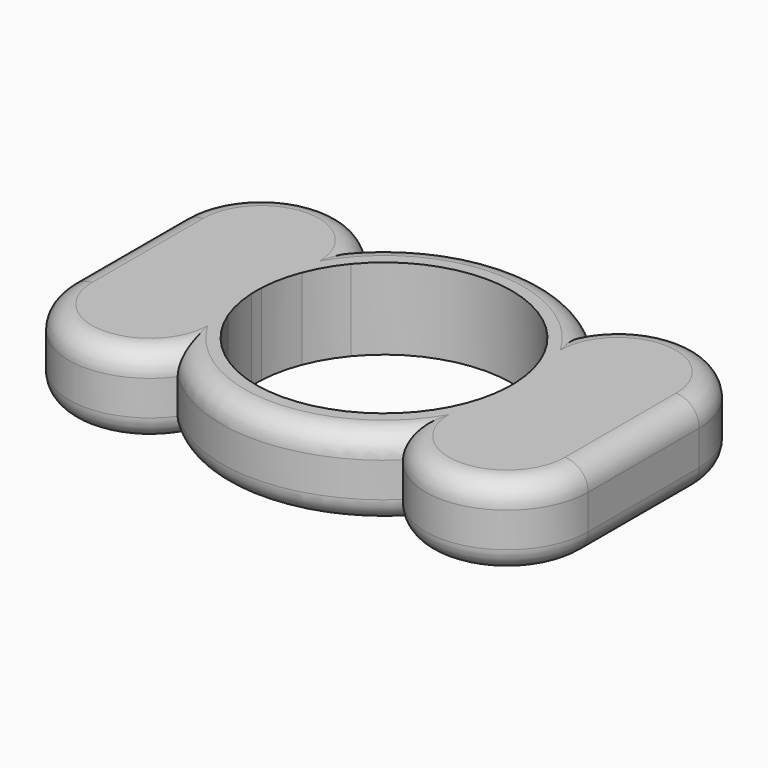
from build123d import *

# Parameters (mm, degrees)
F1_DEPTH = 7
F2_DEPTH = 7
F3_R     = 2


with BuildPart() as f1:
    # F0 (on Top) → F1 (new body)
    with BuildSketch(Plane.XY):
        with BuildLine():
            ThreePointArc((-9.7087900596, -10.0865948456), (-8.9007458498, -8.6347522936), (-8.4576472505, -7.0333635613))
            ThreePointArc((-8.4576472505, -7.0333635613), (-9.4780216806, -5.5827506682), (-10.2520112756, -3.9870120147))
            ThreePointArc((-10.2520112756, -3.9870120147), (-10.759495877, -2.2876294437), (-10.9872832267, -0.5287790616))
            ThreePointArc((-10.9872832267, -0.5287790616), (-11.3550654803, -0.2520049718), (-11.7402422931, 0))
            ThreePointArc((-11.7402422931, 0), (-12.8185393367, -0.5347774075), (-13.9725087133, -0.8769265967))
            ThreePointArc((-13.9725087133, -0.8769265967), (-13.9710444343, -0.8999541178), (-13.9695422046, -0.9229791942))
            ThreePointArc((-13.9695422046, -0.9229791942), (-11.1972877772, -2.804985958), (-10.1280169134, -5.9805180221))
            ThreePointArc((-10.1280169134, -5.9805180221), (-10.3305835736, -7.4247883157), (-10.9226518395, -8.757606796))
            ThreePointArc((-10.9226518395, -8.757606796), (-10.3371007066, -9.4416285132), (-9.7087900596, -10.0865948456))
        make_face()
        with BuildLine():
            ThreePointArc((-14.0697397209, 0.8961389265), (-15.3780169134, 0.7305180221), (-16.6862941059, 0.8961389265))
            ThreePointArc((-16.6862941059, 0.8961389265), (-17.8913062675, 0.5527335897), (-19.0157915336, 0))
            ThreePointArc((-19.0157915336, 0), (-17.8913062675, -0.5527335897), (-16.6862941059, -0.8961389265))
            ThreePointArc((-16.6862941059, -0.8961389265), (-15.3780169134, -0.7305180221), (-14.0697397209, -0.8961389265))
            ThreePointArc((-14.0697397209, -0.8961389265), (-14.021090214, -0.8867048469), (-13.9725087133, -0.8769265967))
            ThreePointArc((-13.9725087133, -0.8769265967), (-14, 0), (-13.9725087133, 0.8769265967))
            ThreePointArc((-13.9725087133, 0.8769265967), (-14.021090214, 0.8867048469), (-14.0697397209, 0.8961389265))
        make_face()
        with BuildLine():
            ThreePointArc((-22.3780169134, -5.9805180221), (-17.5361888277, -12.6395189973), (-9.7087900596, -10.0865948456))
            ThreePointArc((-9.7087900596, -10.0865948456), (-10.3371007066, -9.4416285132), (-10.9226518395, -8.757606796))
            ThreePointArc((-10.9226518395, -8.757606796), (-19.6120114574, -9.0846749448), (-16.6862941059, -0.8961389265))
            ThreePointArc((-16.6862941059, -0.8961389265), (-17.8913062675, -0.5527335897), (-19.0157915336, 0))
            ThreePointArc((-19.0157915336, 0), (-21.4798372296, -2.5500969358), (-22.3780169134, -5.9805180221))
        make_face()
        with BuildLine():
            ThreePointArc((-13.9725087133, -0.8769265967), (-12.8185393367, -0.5347774075), (-11.7402422931, 0))
            ThreePointArc((-11.7402422931, 0), (-12.8185393367, 0.5347774075), (-13.9725087133, 0.8769265967))
            ThreePointArc((-13.9725087133, 0.8769265967), (-14, 0), (-13.9725087133, -0.8769265967))
        make_face()
        with BuildLine():
            ThreePointArc((-14.0697397209, -0.8961389265), (-14.019574672, -0.90931159), (-13.9695422046, -0.9229791942))
            ThreePointArc((-13.9695422046, -0.9229791942), (-13.9710444343, -0.8999541178), (-13.9725087133, -0.8769265967))
            ThreePointArc((-13.9725087133, -0.8769265967), (-14.021090214, -0.8867048469), (-14.0697397209, -0.8961389265))
        make_face()
        with BuildLine():
            ThreePointArc((-13.9725087133, 0.8769265967), (-13.9710444343, 0.8999541178), (-13.9695422046, 0.9229791942))
            ThreePointArc((-13.9695422046, 0.9229791942), (-14.019574672, 0.90931159), (-14.0697397209, 0.8961389265))
            ThreePointArc((-14.0697397209, 0.8961389265), (-14.021090214, 0.8867048469), (-13.9725087133, 0.8769265967))
        make_face()
        with BuildLine():
            ThreePointArc((-10.9872832267, -0.5287790616), (-11, 0), (-10.9872832267, 0.5287790616))
            ThreePointArc((-10.9872832267, 0.5287790616), (-11.3550654803, 0.2520049718), (-11.7402422931, 0))
            ThreePointArc((-11.7402422931, 0), (-11.3550654803, -0.2520049718), (-10.9872832267, -0.5287790616))
        make_face()
        with BuildLine():
            ThreePointArc((-10.2520112756, 3.9870120147), (-9.4780216806, 5.5827506682), (-8.4576472505, 7.0333635613))
            ThreePointArc((-8.4576472505, 7.0333635613), (-8.9007458498, 8.6347522936), (-9.7087900596, 10.0865948456))
            ThreePointArc((-9.7087900596, 10.0865948456), (-10.3371007066, 9.4416285132), (-10.9226518395, 8.757606796))
            ThreePointArc((-10.9226518395, 8.757606796), (-10.3305835736, 7.4247883157), (-10.1280169134, 5.9805180221))
            ThreePointArc((-10.1280169134, 5.9805180221), (-11.1972877772, 2.804985958), (-13.9695422046, 0.9229791942))
            ThreePointArc((-13.9695422046, 0.9229791942), (-13.9710444343, 0.8999541178), (-13.9725087133, 0.8769265967))
            ThreePointArc((-13.9725087133, 0.8769265967), (-12.8185393367, 0.5347774075), (-11.7402422931, 0))
            ThreePointArc((-11.7402422931, 0), (-11.3550654803, 0.2520049718), (-10.9872832267, 0.5287790616))
            ThreePointArc((-10.9872832267, 0.5287790616), (-10.759495877, 2.2876294437), (-10.2520112756, 3.9870120147))
        make_face()
        with BuildLine():
            ThreePointArc((-10.9226518395, 8.757606796), (-10.3371007066, 9.4416285132), (-9.7087900596, 10.0865948456))
            ThreePointArc((-9.7087900596, 10.0865948456), (-17.5361888277, 12.6395189973), (-22.3780169134, 5.9805180221))
            ThreePointArc((-22.3780169134, 5.9805180221), (-21.4798372296, 2.5500969358), (-19.0157915336, 0))
            ThreePointArc((-19.0157915336, 0), (-17.8913062675, 0.5527335897), (-16.6862941059, 0.8961389265))
            ThreePointArc((-16.6862941059, 0.8961389265), (-19.6120114574, 9.0846749448), (-10.9226518395, 8.757606796))
        make_face()
        with BuildLine():
            ThreePointArc((10.2520112756, 3.9870120147), (10.759495877, 2.2876294437), (10.9872832267, 0.5287790616))
            ThreePointArc((10.9872832267, 0.5287790616), (11.3550654803, 0.2520049718), (11.7402422931, 0))
            ThreePointArc((11.7402422931, 0), (12.8185393367, 0.5347774075), (13.9725087133, 0.8769265967))
            ThreePointArc((13.9725087133, 0.8769265967), (13.9710444343, 0.8999541178), (13.9695422046, 0.9229791942))
            ThreePointArc((13.9695422046, 0.9229791942), (10.4850115318, 4.0776259241), (10.9226518395, 8.757606796))
            ThreePointArc((10.9226518395, 8.757606796), (10.3371007066, 9.4416285132), (9.7087900596, 10.0865948456))
            ThreePointArc((9.7087900596, 10.0865948456), (8.9007458498, 8.6347522936), (8.4576472505, 7.0333635613))
            ThreePointArc((8.4576472505, 7.0333635613), (9.4780216806, 5.5827506682), (10.2520112756, 3.9870120147))
        make_face()
        with BuildLine():
            ThreePointArc((9.7087900596, -10.0865948456), (8.9007458498, -8.6347522936), (8.4576472505, -7.0333635613))
            ThreePointArc((8.4576472505, -7.0333635613), (0, -11), (-8.4576472505, -7.0333635613))
            ThreePointArc((-8.4576472505, -7.0333635613), (-8.9007458498, -8.6347522936), (-9.7087900596, -10.0865948456))
            ThreePointArc((-9.7087900596, -10.0865948456), (0, -14), (9.7087900596, -10.0865948456))
        make_face()
        with BuildLine():
            ThreePointArc((11.7402422931, 0), (11.3550654803, -0.2520049718), (10.9872832267, -0.5287790616))
            ThreePointArc((10.9872832267, -0.5287790616), (10.759495877, -2.2876294437), (10.2520112756, -3.9870120147))
            ThreePointArc((10.2520112756, -3.9870120147), (9.4780216806, -5.5827506682), (8.4576472505, -7.0333635613))
            ThreePointArc((8.4576472505, -7.0333635613), (8.9007458498, -8.6347522936), (9.7087900596, -10.0865948456))
            ThreePointArc((9.7087900596, -10.0865948456), (10.3371007066, -9.4416285132), (10.9226518395, -8.757606796))
            ThreePointArc((10.9226518395, -8.757606796), (10.4850115318, -4.0776259241), (13.9695422046, -0.9229791942))
            ThreePointArc((13.9695422046, -0.9229791942), (13.9710444343, -0.8999541178), (13.9725087133, -0.8769265967))
            ThreePointArc((13.9725087133, -0.8769265967), (12.8185393367, -0.5347774075), (11.7402422931, 0))
        make_face()
        with BuildLine():
            ThreePointArc((9.7087900596, -10.0865948456), (8.9007458498, -8.6347522936), (8.4576472505, -7.0333635613))
            ThreePointArc((8.4576472505, -7.0333635613), (0, -11), (-8.4576472505, -7.0333635613))
            ThreePointArc((-8.4576472505, -7.0333635613), (-8.9007458498, -8.6347522936), (-9.7087900596, -10.0865948456))
            ThreePointArc((-9.7087900596, -10.0865948456), (0, -14), (9.7087900596, -10.0865948456))
        make_face()
        with BuildLine():
            ThreePointArc((10.9872832267, 0.5287790616), (10.9968203471, 0.2644659772), (11, 0))
            ThreePointArc((11, 0), (10.9968203471, -0.2644659772), (10.9872832267, -0.5287790616))
            ThreePointArc((10.9872832267, -0.5287790616), (11.3550654803, -0.2520049718), (11.7402422931, 0))
            ThreePointArc((11.7402422931, 0), (11.3550654803, 0.2520049718), (10.9872832267, 0.5287790616))
        make_face()
        with BuildLine():
            ThreePointArc((22.3780169134, 5.9805180221), (17.5361888277, 12.6395189973), (9.7087900596, 10.0865948456))
            ThreePointArc((9.7087900596, 10.0865948456), (10.3371007066, 9.4416285132), (10.9226518395, 8.757606796))
            ThreePointArc((10.9226518395, 8.757606796), (16.822287207, 11.0279513618), (20.6280169134, 5.9805180221))
            ThreePointArc((20.6280169134, 5.9805180221), (19.5271707585, 2.7638392427), (16.6862941059, 0.8961389265))
            ThreePointArc((16.6862941059, 0.8961389265), (17.8913062675, 0.5527335897), (19.0157915336, 0))
            ThreePointArc((19.0157915336, 0), (21.4798372296, 2.5500969358), (22.3780169134, 5.9805180221))
        make_face()
        with BuildLine():
            Line((22.3780169134, -5.9805180221), (22.3780169134, 5.9805180221))
            ThreePointArc((22.3780169134, 5.9805180221), (21.4798372296, 2.5500969358), (19.0157915336, 0))
            ThreePointArc((19.0157915336, 0), (21.4798372296, -2.5500969358), (22.3780169134, -5.9805180221))
        make_face()
        with BuildLine():
            ThreePointArc((14, 0), (13.9931254905, -0.4386787056), (13.9725087133, -0.8769265967))
            ThreePointArc((13.9725087133, -0.8769265967), (14.021090214, -0.8867048469), (14.0697397209, -0.8961389265))
            ThreePointArc((14.0697397209, -0.8961389265), (15.3780169134, -0.7305180221), (16.6862941059, -0.8961389265))
            ThreePointArc((16.6862941059, -0.8961389265), (17.8913062675, -0.5527335897), (19.0157915336, 0))
            ThreePointArc((19.0157915336, 0), (17.8913062675, 0.5527335897), (16.6862941059, 0.8961389265))
            ThreePointArc((16.6862941059, 0.8961389265), (15.3780169134, 0.7305180221), (14.0697397209, 0.8961389265))
            ThreePointArc((14.0697397209, 0.8961389265), (14.021090214, 0.8867048469), (13.9725087133, 0.8769265967))
            ThreePointArc((13.9725087133, 0.8769265967), (13.9931254905, 0.4386787056), (14, 0))
        make_face()
        with BuildLine():
            ThreePointArc((10.9226518395, -8.757606796), (10.3371007066, -9.4416285132), (9.7087900596, -10.0865948456))
            ThreePointArc((9.7087900596, -10.0865948456), (17.5361888277, -12.6395189973), (22.3780169134, -5.9805180221))
            ThreePointArc((22.3780169134, -5.9805180221), (21.4798372296, -2.5500969358), (19.0157915336, 0))
            ThreePointArc((19.0157915336, 0), (17.8913062675, -0.5527335897), (16.6862941059, -0.8961389265))
            ThreePointArc((16.6862941059, -0.8961389265), (19.5271707585, -2.7638392427), (20.6280169134, -5.9805180221))
            ThreePointArc((20.6280169134, -5.9805180221), (16.822287207, -11.0279513618), (10.9226518395, -8.757606796))
        make_face()
        with BuildLine():
            ThreePointArc((10.2520112756, 3.9870120147), (10.759495877, 2.2876294437), (10.9872832267, 0.5287790616))
            ThreePointArc((10.9872832267, 0.5287790616), (11.3550654803, 0.2520049718), (11.7402422931, 0))
            ThreePointArc((11.7402422931, 0), (12.8185393367, 0.5347774075), (13.9725087133, 0.8769265967))
            ThreePointArc((13.9725087133, 0.8769265967), (13.9710444343, 0.8999541178), (13.9695422046, 0.9229791942))
            ThreePointArc((13.9695422046, 0.9229791942), (10.4850115318, 4.0776259241), (10.9226518395, 8.757606796))
            ThreePointArc((10.9226518395, 8.757606796), (10.3371007066, 9.4416285132), (9.7087900596, 10.0865948456))
            ThreePointArc((9.7087900596, 10.0865948456), (8.9007458498, 8.6347522936), (8.4576472505, 7.0333635613))
            ThreePointArc((8.4576472505, 7.0333635613), (9.4780216806, 5.5827506682), (10.2520112756, 3.9870120147))
        make_face()
        with BuildLine():
            ThreePointArc((14, 0), (13.9931254905, -0.4386787056), (13.9725087133, -0.8769265967))
            ThreePointArc((13.9725087133, -0.8769265967), (14.021090214, -0.8867048469), (14.0697397209, -0.8961389265))
            ThreePointArc((14.0697397209, -0.8961389265), (15.3780169134, -0.7305180221), (16.6862941059, -0.8961389265))
            ThreePointArc((16.6862941059, -0.8961389265), (17.8913062675, -0.5527335897), (19.0157915336, 0))
            ThreePointArc((19.0157915336, 0), (17.8913062675, 0.5527335897), (16.6862941059, 0.8961389265))
            ThreePointArc((16.6862941059, 0.8961389265), (15.3780169134, 0.7305180221), (14.0697397209, 0.8961389265))
            ThreePointArc((14.0697397209, 0.8961389265), (14.021090214, 0.8867048469), (13.9725087133, 0.8769265967))
            ThreePointArc((13.9725087133, 0.8769265967), (13.9931254905, 0.4386787056), (14, 0))
        make_face()
        with BuildLine():
            ThreePointArc((13.9695422046, 0.9229791942), (13.9710444343, 0.8999541178), (13.9725087133, 0.8769265967))
            ThreePointArc((13.9725087133, 0.8769265967), (14.021090214, 0.8867048469), (14.0697397209, 0.8961389265))
            ThreePointArc((14.0697397209, 0.8961389265), (14.019574672, 0.90931159), (13.9695422046, 0.9229791942))
        make_face()
        with BuildLine():
            ThreePointArc((-19.0157915336, 0), (-21.4798372296, 2.5500969358), (-22.3780169134, 5.9805180221))
            Line((-22.3780169134, 5.9805180221), (-22.3780169134, -5.9805180221))
            ThreePointArc((-22.3780169134, -5.9805180221), (-21.4798372296, -2.5500969358), (-19.0157915336, 0))
        make_face()
        with BuildLine():
            ThreePointArc((-8.4576472505, 7.0333635613), (0, 11), (8.4576472505, 7.0333635613))
            ThreePointArc((8.4576472505, 7.0333635613), (8.9007458498, 8.6347522936), (9.7087900596, 10.0865948456))
            ThreePointArc((9.7087900596, 10.0865948456), (0, 14), (-9.7087900596, 10.0865948456))
            ThreePointArc((-9.7087900596, 10.0865948456), (-8.9007458498, 8.6347522936), (-8.4576472505, 7.0333635613))
        make_face()
    extrude(amount=F1_DEPTH)

    # F0 (on Top) → F2 (join)
    with BuildSketch(Plane.XY):
        with BuildLine():
            ThreePointArc((-9.7087900596, -10.0865948456), (-8.9007458498, -8.6347522936), (-8.4576472505, -7.0333635613))
            ThreePointArc((-8.4576472505, -7.0333635613), (-9.4780216806, -5.5827506682), (-10.2520112756, -3.9870120147))
            ThreePointArc((-10.2520112756, -3.9870120147), (-10.759495877, -2.2876294437), (-10.9872832267, -0.5287790616))
            ThreePointArc((-10.9872832267, -0.5287790616), (-11.3550654803, -0.2520049718), (-11.7402422931, 0))
            ThreePointArc((-11.7402422931, 0), (-12.8185393367, -0.5347774075), (-13.9725087133, -0.8769265967))
            ThreePointArc((-13.9725087133, -0.8769265967), (-13.9710444343, -0.8999541178), (-13.9695422046, -0.9229791942))
            ThreePointArc((-13.9695422046, -0.9229791942), (-11.1972877772, -2.804985958), (-10.1280169134, -5.9805180221))
            ThreePointArc((-10.1280169134, -5.9805180221), (-10.3305835736, -7.4247883157), (-10.9226518395, -8.757606796))
            ThreePointArc((-10.9226518395, -8.757606796), (-10.3371007066, -9.4416285132), (-9.7087900596, -10.0865948456))
        make_face()
        with BuildLine():
            ThreePointArc((-22.3780169134, -5.9805180221), (-17.5361888277, -12.6395189973), (-9.7087900596, -10.0865948456))
            ThreePointArc((-9.7087900596, -10.0865948456), (-10.3371007066, -9.4416285132), (-10.9226518395, -8.757606796))
            ThreePointArc((-10.9226518395, -8.757606796), (-19.6120114574, -9.0846749448), (-16.6862941059, -0.8961389265))
            ThreePointArc((-16.6862941059, -0.8961389265), (-17.8913062675, -0.5527335897), (-19.0157915336, 0))
            ThreePointArc((-19.0157915336, 0), (-21.4798372296, -2.5500969358), (-22.3780169134, -5.9805180221))
        make_face()
        with BuildLine():
            ThreePointArc((-14.0697397209, 0.8961389265), (-15.3780169134, 0.7305180221), (-16.6862941059, 0.8961389265))
            ThreePointArc((-16.6862941059, 0.8961389265), (-17.8913062675, 0.5527335897), (-19.0157915336, 0))
            ThreePointArc((-19.0157915336, 0), (-17.8913062675, -0.5527335897), (-16.6862941059, -0.8961389265))
            ThreePointArc((-16.6862941059, -0.8961389265), (-15.3780169134, -0.7305180221), (-14.0697397209, -0.8961389265))
            ThreePointArc((-14.0697397209, -0.8961389265), (-14.021090214, -0.8867048469), (-13.9725087133, -0.8769265967))
            ThreePointArc((-13.9725087133, -0.8769265967), (-14, 0), (-13.9725087133, 0.8769265967))
            ThreePointArc((-13.9725087133, 0.8769265967), (-14.021090214, 0.8867048469), (-14.0697397209, 0.8961389265))
        make_face()
        with BuildLine():
            ThreePointArc((-10.9226518395, 8.757606796), (-10.3371007066, 9.4416285132), (-9.7087900596, 10.0865948456))
            ThreePointArc((-9.7087900596, 10.0865948456), (-17.5361888277, 12.6395189973), (-22.3780169134, 5.9805180221))
            ThreePointArc((-22.3780169134, 5.9805180221), (-21.4798372296, 2.5500969358), (-19.0157915336, 0))
            ThreePointArc((-19.0157915336, 0), (-17.8913062675, 0.5527335897), (-16.6862941059, 0.8961389265))
            ThreePointArc((-16.6862941059, 0.8961389265), (-19.6120114574, 9.0846749448), (-10.9226518395, 8.757606796))
        make_face()
        with BuildLine():
            ThreePointArc((-8.4576472505, 7.0333635613), (0, 11), (8.4576472505, 7.0333635613))
            ThreePointArc((8.4576472505, 7.0333635613), (8.9007458498, 8.6347522936), (9.7087900596, 10.0865948456))
            ThreePointArc((9.7087900596, 10.0865948456), (0, 14), (-9.7087900596, 10.0865948456))
            ThreePointArc((-9.7087900596, 10.0865948456), (-8.9007458498, 8.6347522936), (-8.4576472505, 7.0333635613))
        make_face()
        with BuildLine():
            ThreePointArc((-10.1280169134, 5.9805180221), (-10.3305835736, 7.4247883157), (-10.9226518395, 8.757606796))
            ThreePointArc((-10.9226518395, 8.757606796), (-13.0480143507, 5.0743789278), (-13.9695422046, 0.9229791942))
            ThreePointArc((-13.9695422046, 0.9229791942), (-11.1972877772, 2.804985958), (-10.1280169134, 5.9805180221))
        make_face()
        with BuildLine():
            ThreePointArc((-13.9695422046, 0.9229791942), (-13.0480143507, 5.0743789278), (-10.9226518395, 8.757606796))
            ThreePointArc((-10.9226518395, 8.757606796), (-19.6120114574, 9.0846749448), (-16.6862941059, 0.8961389265))
            ThreePointArc((-16.6862941059, 0.8961389265), (-15.3780169134, 1.0194819779), (-14.0697397209, 0.8961389265))
            ThreePointArc((-14.0697397209, 0.8961389265), (-14.019574672, 0.90931159), (-13.9695422046, 0.9229791942))
        make_face()
        with BuildLine():
            ThreePointArc((-10.2520112756, 3.9870120147), (-9.4780216806, 5.5827506682), (-8.4576472505, 7.0333635613))
            ThreePointArc((-8.4576472505, 7.0333635613), (-8.9007458498, 8.6347522936), (-9.7087900596, 10.0865948456))
            ThreePointArc((-9.7087900596, 10.0865948456), (-10.3371007066, 9.4416285132), (-10.9226518395, 8.757606796))
            ThreePointArc((-10.9226518395, 8.757606796), (-10.3305835736, 7.4247883157), (-10.1280169134, 5.9805180221))
            ThreePointArc((-10.1280169134, 5.9805180221), (-11.1972877772, 2.804985958), (-13.9695422046, 0.9229791942))
            ThreePointArc((-13.9695422046, 0.9229791942), (-13.9710444343, 0.8999541178), (-13.9725087133, 0.8769265967))
            ThreePointArc((-13.9725087133, 0.8769265967), (-12.8185393367, 0.5347774075), (-11.7402422931, 0))
            ThreePointArc((-11.7402422931, 0), (-11.3550654803, 0.2520049718), (-10.9872832267, 0.5287790616))
            ThreePointArc((-10.9872832267, 0.5287790616), (-10.759495877, 2.2876294437), (-10.2520112756, 3.9870120147))
        make_face()
        with BuildLine():
            ThreePointArc((-13.9725087133, -0.8769265967), (-12.8185393367, -0.5347774075), (-11.7402422931, 0))
            ThreePointArc((-11.7402422931, 0), (-12.8185393367, 0.5347774075), (-13.9725087133, 0.8769265967))
            ThreePointArc((-13.9725087133, 0.8769265967), (-14, 0), (-13.9725087133, -0.8769265967))
        make_face()
        with BuildLine():
            ThreePointArc((-13.9695422046, -0.9229791942), (-13.0480143507, -5.0743789278), (-10.9226518395, -8.757606796))
            ThreePointArc((-10.9226518395, -8.757606796), (-10.3305835736, -7.4247883157), (-10.1280169134, -5.9805180221))
            ThreePointArc((-10.1280169134, -5.9805180221), (-11.1972877772, -2.804985958), (-13.9695422046, -0.9229791942))
        make_face()
        with BuildLine():
            ThreePointArc((9.7087900596, -10.0865948456), (8.9007458498, -8.6347522936), (8.4576472505, -7.0333635613))
            ThreePointArc((8.4576472505, -7.0333635613), (0, -11), (-8.4576472505, -7.0333635613))
            ThreePointArc((-8.4576472505, -7.0333635613), (-8.9007458498, -8.6347522936), (-9.7087900596, -10.0865948456))
            ThreePointArc((-9.7087900596, -10.0865948456), (0, -14), (9.7087900596, -10.0865948456))
        make_face()
        with BuildLine():
            ThreePointArc((11.7402422931, 0), (11.3550654803, -0.2520049718), (10.9872832267, -0.5287790616))
            ThreePointArc((10.9872832267, -0.5287790616), (10.759495877, -2.2876294437), (10.2520112756, -3.9870120147))
            ThreePointArc((10.2520112756, -3.9870120147), (9.4780216806, -5.5827506682), (8.4576472505, -7.0333635613))
            ThreePointArc((8.4576472505, -7.0333635613), (8.9007458498, -8.6347522936), (9.7087900596, -10.0865948456))
            ThreePointArc((9.7087900596, -10.0865948456), (10.3371007066, -9.4416285132), (10.9226518395, -8.757606796))
            ThreePointArc((10.9226518395, -8.757606796), (10.4850115318, -4.0776259241), (13.9695422046, -0.9229791942))
            ThreePointArc((13.9695422046, -0.9229791942), (13.9710444343, -0.8999541178), (13.9725087133, -0.8769265967))
            ThreePointArc((13.9725087133, -0.8769265967), (12.8185393367, -0.5347774075), (11.7402422931, 0))
        make_face()
        with BuildLine():
            ThreePointArc((-16.6862941059, -0.8961389265), (-19.6120114574, -9.0846749448), (-10.9226518395, -8.757606796))
            ThreePointArc((-10.9226518395, -8.757606796), (-13.0480143507, -5.0743789278), (-13.9695422046, -0.9229791942))
            ThreePointArc((-13.9695422046, -0.9229791942), (-14.019574672, -0.90931159), (-14.0697397209, -0.8961389265))
            ThreePointArc((-14.0697397209, -0.8961389265), (-15.3780169134, -1.0194819779), (-16.6862941059, -0.8961389265))
        make_face()
        with BuildLine():
            ThreePointArc((10.9226518395, -8.757606796), (13.0480143507, -5.0743789278), (13.9695422046, -0.9229791942))
            ThreePointArc((13.9695422046, -0.9229791942), (10.4850115318, -4.0776259241), (10.9226518395, -8.757606796))
        make_face()
        with BuildLine():
            ThreePointArc((13.9725087133, 0.8769265967), (12.8185393367, 0.5347774075), (11.7402422931, 0))
            ThreePointArc((11.7402422931, 0), (12.8185393367, -0.5347774075), (13.9725087133, -0.8769265967))
            ThreePointArc((13.9725087133, -0.8769265967), (13.9931254905, -0.4386787056), (14, 0))
            ThreePointArc((14, 0), (13.9931254905, 0.4386787056), (13.9725087133, 0.8769265967))
        make_face()
        with BuildLine():
            ThreePointArc((10.2520112756, 3.9870120147), (10.759495877, 2.2876294437), (10.9872832267, 0.5287790616))
            ThreePointArc((10.9872832267, 0.5287790616), (11.3550654803, 0.2520049718), (11.7402422931, 0))
            ThreePointArc((11.7402422931, 0), (12.8185393367, 0.5347774075), (13.9725087133, 0.8769265967))
            ThreePointArc((13.9725087133, 0.8769265967), (13.9710444343, 0.8999541178), (13.9695422046, 0.9229791942))
            ThreePointArc((13.9695422046, 0.9229791942), (10.4850115318, 4.0776259241), (10.9226518395, 8.757606796))
            ThreePointArc((10.9226518395, 8.757606796), (10.3371007066, 9.4416285132), (9.7087900596, 10.0865948456))
            ThreePointArc((9.7087900596, 10.0865948456), (8.9007458498, 8.6347522936), (8.4576472505, 7.0333635613))
            ThreePointArc((8.4576472505, 7.0333635613), (9.4780216806, 5.5827506682), (10.2520112756, 3.9870120147))
        make_face()
        with BuildLine():
            ThreePointArc((10.9226518395, 8.757606796), (10.4850115318, 4.0776259241), (13.9695422046, 0.9229791942))
            ThreePointArc((13.9695422046, 0.9229791942), (13.0480143507, 5.0743789278), (10.9226518395, 8.757606796))
        make_face()
        with BuildLine():
            ThreePointArc((22.3780169134, 5.9805180221), (17.5361888277, 12.6395189973), (9.7087900596, 10.0865948456))
            ThreePointArc((9.7087900596, 10.0865948456), (10.3371007066, 9.4416285132), (10.9226518395, 8.757606796))
            ThreePointArc((10.9226518395, 8.757606796), (16.822287207, 11.0279513618), (20.6280169134, 5.9805180221))
            ThreePointArc((20.6280169134, 5.9805180221), (19.5271707585, 2.7638392427), (16.6862941059, 0.8961389265))
            ThreePointArc((16.6862941059, 0.8961389265), (17.8913062675, 0.5527335897), (19.0157915336, 0))
            ThreePointArc((19.0157915336, 0), (21.4798372296, 2.5500969358), (22.3780169134, 5.9805180221))
        make_face()
        with BuildLine():
            ThreePointArc((14, 0), (13.9931254905, -0.4386787056), (13.9725087133, -0.8769265967))
            ThreePointArc((13.9725087133, -0.8769265967), (14.021090214, -0.8867048469), (14.0697397209, -0.8961389265))
            ThreePointArc((14.0697397209, -0.8961389265), (15.3780169134, -0.7305180221), (16.6862941059, -0.8961389265))
            ThreePointArc((16.6862941059, -0.8961389265), (17.8913062675, -0.5527335897), (19.0157915336, 0))
            ThreePointArc((19.0157915336, 0), (17.8913062675, 0.5527335897), (16.6862941059, 0.8961389265))
            ThreePointArc((16.6862941059, 0.8961389265), (15.3780169134, 0.7305180221), (14.0697397209, 0.8961389265))
            ThreePointArc((14.0697397209, 0.8961389265), (14.021090214, 0.8867048469), (13.9725087133, 0.8769265967))
            ThreePointArc((13.9725087133, 0.8769265967), (13.9931254905, 0.4386787056), (14, 0))
        make_face()
        with BuildLine():
            ThreePointArc((-14.0697397209, -0.8961389265), (-14.019574672, -0.90931159), (-13.9695422046, -0.9229791942))
            ThreePointArc((-13.9695422046, -0.9229791942), (-13.9710444343, -0.8999541178), (-13.9725087133, -0.8769265967))
            ThreePointArc((-13.9725087133, -0.8769265967), (-14.021090214, -0.8867048469), (-14.0697397209, -0.8961389265))
        make_face()
        with BuildLine():
            ThreePointArc((-13.9725087133, 0.8769265967), (-13.9710444343, 0.8999541178), (-13.9695422046, 0.9229791942))
            ThreePointArc((-13.9695422046, 0.9229791942), (-14.019574672, 0.90931159), (-14.0697397209, 0.8961389265))
            ThreePointArc((-14.0697397209, 0.8961389265), (-14.021090214, 0.8867048469), (-13.9725087133, 0.8769265967))
        make_face()
        with BuildLine():
            ThreePointArc((10.9226518395, -8.757606796), (10.3371007066, -9.4416285132), (9.7087900596, -10.0865948456))
            ThreePointArc((9.7087900596, -10.0865948456), (17.5361888277, -12.6395189973), (22.3780169134, -5.9805180221))
            ThreePointArc((22.3780169134, -5.9805180221), (21.4798372296, -2.5500969358), (19.0157915336, 0))
            ThreePointArc((19.0157915336, 0), (17.8913062675, -0.5527335897), (16.6862941059, -0.8961389265))
            ThreePointArc((16.6862941059, -0.8961389265), (19.5271707585, -2.7638392427), (20.6280169134, -5.9805180221))
            ThreePointArc((20.6280169134, -5.9805180221), (16.822287207, -11.0279513618), (10.9226518395, -8.757606796))
        make_face()
        with BuildLine():
            ThreePointArc((14.0697397209, -0.8961389265), (14.019574672, -0.90931159), (13.9695422046, -0.9229791942))
            ThreePointArc((13.9695422046, -0.9229791942), (13.0480143507, -5.0743789278), (10.9226518395, -8.757606796))
            ThreePointArc((10.9226518395, -8.757606796), (16.822287207, -11.0279513618), (20.6280169134, -5.9805180221))
            ThreePointArc((20.6280169134, -5.9805180221), (19.5271707585, -2.7638392427), (16.6862941059, -0.8961389265))
            ThreePointArc((16.6862941059, -0.8961389265), (15.3780169134, -1.0194819779), (14.0697397209, -0.8961389265))
        make_face()
        with BuildLine():
            ThreePointArc((-14.0697397209, 0.8961389265), (-15.3780169134, 1.0194819779), (-16.6862941059, 0.8961389265))
            ThreePointArc((-16.6862941059, 0.8961389265), (-15.3780169134, 0.7305180221), (-14.0697397209, 0.8961389265))
        make_face()
        with BuildLine():
            ThreePointArc((-14.0697397209, -0.8961389265), (-15.3780169134, -0.7305180221), (-16.6862941059, -0.8961389265))
            ThreePointArc((-16.6862941059, -0.8961389265), (-15.3780169134, -1.0194819779), (-14.0697397209, -0.8961389265))
        make_face()
        with BuildLine():
            ThreePointArc((14.0697397209, -0.8961389265), (14.021090214, -0.8867048469), (13.9725087133, -0.8769265967))
            ThreePointArc((13.9725087133, -0.8769265967), (13.9710444343, -0.8999541178), (13.9695422046, -0.9229791942))
            ThreePointArc((13.9695422046, -0.9229791942), (14.019574672, -0.90931159), (14.0697397209, -0.8961389265))
        make_face()
        with BuildLine():
            ThreePointArc((16.6862941059, -0.8961389265), (15.3780169134, -0.7305180221), (14.0697397209, -0.8961389265))
            ThreePointArc((14.0697397209, -0.8961389265), (15.3780169134, -1.0194819779), (16.6862941059, -0.8961389265))
        make_face()
        with BuildLine():
            ThreePointArc((13.9695422046, 0.9229791942), (13.9710444343, 0.8999541178), (13.9725087133, 0.8769265967))
            ThreePointArc((13.9725087133, 0.8769265967), (14.021090214, 0.8867048469), (14.0697397209, 0.8961389265))
            ThreePointArc((14.0697397209, 0.8961389265), (14.019574672, 0.90931159), (13.9695422046, 0.9229791942))
        make_face()
        with BuildLine():
            ThreePointArc((16.6862941059, 0.8961389265), (15.3780169134, 1.0194819779), (14.0697397209, 0.8961389265))
            ThreePointArc((14.0697397209, 0.8961389265), (15.3780169134, 0.7305180221), (16.6862941059, 0.8961389265))
        make_face()
        with BuildLine():
            ThreePointArc((10.9872832267, 0.5287790616), (10.9968203471, 0.2644659772), (11, 0))
            ThreePointArc((11, 0), (10.9968203471, -0.2644659772), (10.9872832267, -0.5287790616))
            ThreePointArc((10.9872832267, -0.5287790616), (11.3550654803, -0.2520049718), (11.7402422931, 0))
            ThreePointArc((11.7402422931, 0), (11.3550654803, 0.2520049718), (10.9872832267, 0.5287790616))
        make_face()
        with BuildLine():
            ThreePointArc((-10.9872832267, -0.5287790616), (-11, 0), (-10.9872832267, 0.5287790616))
            ThreePointArc((-10.9872832267, 0.5287790616), (-11.3550654803, 0.2520049718), (-11.7402422931, 0))
            ThreePointArc((-11.7402422931, 0), (-11.3550654803, -0.2520049718), (-10.9872832267, -0.5287790616))
        make_face()
        with BuildLine():
            ThreePointArc((10.9226518395, 8.757606796), (13.0480143507, 5.0743789278), (13.9695422046, 0.9229791942))
            ThreePointArc((13.9695422046, 0.9229791942), (14.019574672, 0.90931159), (14.0697397209, 0.8961389265))
            ThreePointArc((14.0697397209, 0.8961389265), (15.3780169134, 1.0194819779), (16.6862941059, 0.8961389265))
            ThreePointArc((16.6862941059, 0.8961389265), (19.5271707585, 2.7638392427), (20.6280169134, 5.9805180221))
            ThreePointArc((20.6280169134, 5.9805180221), (16.822287207, 11.0279513618), (10.9226518395, 8.757606796))
        make_face()
        with BuildLine():
            Line((22.3780169134, -5.9805180221), (22.3780169134, 5.9805180221))
            ThreePointArc((22.3780169134, 5.9805180221), (21.4798372296, 2.5500969358), (19.0157915336, 0))
            ThreePointArc((19.0157915336, 0), (21.4798372296, -2.5500969358), (22.3780169134, -5.9805180221))
        make_face()
        with BuildLine():
            ThreePointArc((-19.0157915336, 0), (-21.4798372296, 2.5500969358), (-22.3780169134, 5.9805180221))
            Line((-22.3780169134, 5.9805180221), (-22.3780169134, -5.9805180221))
            ThreePointArc((-22.3780169134, -5.9805180221), (-21.4798372296, -2.5500969358), (-19.0157915336, 0))
        make_face()
    extrude(amount=F2_DEPTH)

    # F3
    f3_edges = [f1.edges().sort_by_distance(p)[0] for p in [
        (0, -14, 7),
        (0, -14, 0),
        (17.536189, -12.639519, 0),
        (0, 14, 0),
        (-17.536189, 12.639519, 0),
        (-17.536189, -12.639519, 7),
        (0, 14, 7),
        (17.536189, 12.639519, 7),
    ]]
    fillet(f3_edges, radius=F3_R)


solid = f1.part
